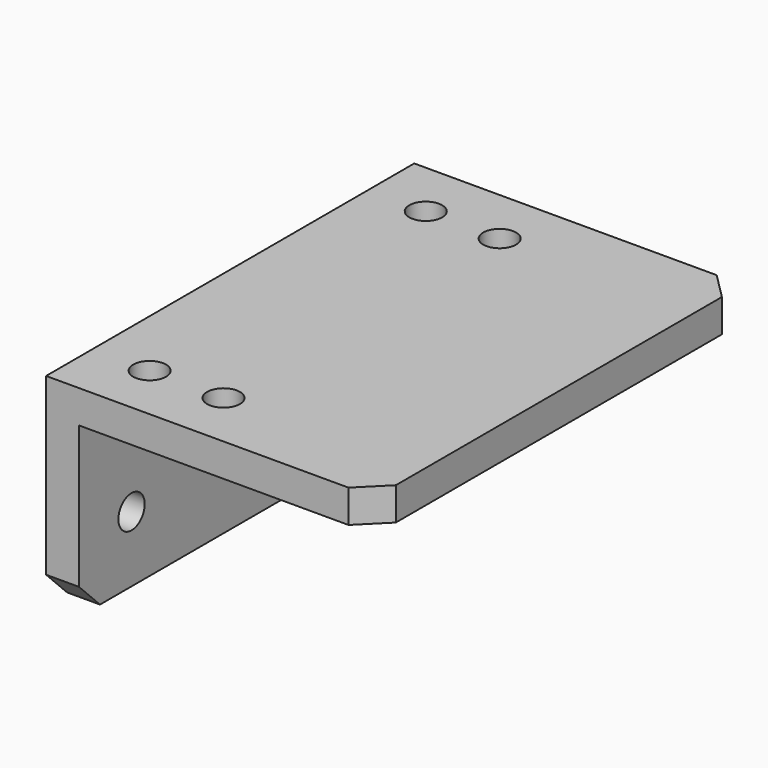
from build123d import *

# Parameters (mm, degrees)
F1_DEPTH = 88.9
F3_D     = 6.35
F4_SIZE  = 5.08
F6_D     = 6.35


with BuildPart() as f1:
    # F0 (on Front) → F1 (new body)
    with BuildSketch(Plane.XZ):
        Polygon((0, 38.8874), (0, 0), (6.35, 0), (6.35, 32.5374), (63.5, 32.5374), (63.5, 38.8874), align=None)
    extrude(amount=F1_DEPTH)

    # F3 (through all)
    with Locations(Plane.YZ.offset(6.35)):
        with Locations((-76.2, 12.7), (-12.7, 12.7)):
            Hole(F3_D / 2)

    # F4
    f4_edges = [f1.edges().sort_by_distance(p)[0] for p in [
        (3.175, -88.9, 0),
        (63.5, -88.9, 35.7124),
        (63.5, 0, 35.7124),
        (3.175, 0, 0),
    ]]
    chamfer(f4_edges, length=F4_SIZE)

    # F6 (through all)
    with Locations(Plane.XY.offset(38.8874)):
        with Locations((25.4, -11.1252), (11.1252, -11.1252), (11.1252, -77.8002), (25.4, -77.8002)):
            Hole(F6_D / 2)


solid = f1.part
